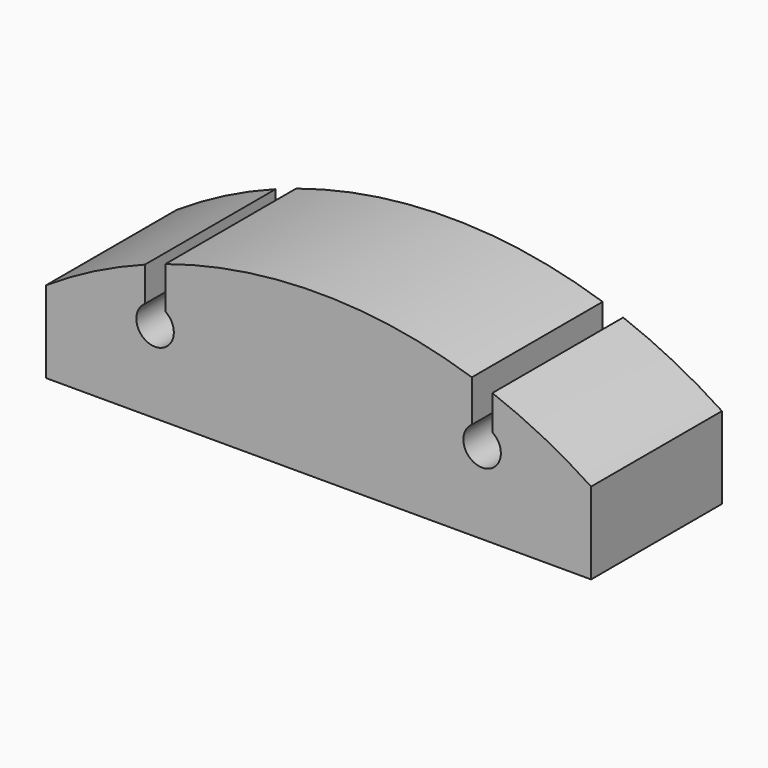
from build123d import *

# Parameters (mm, degrees)
F1_DEPTH = 19.05


with BuildPart() as f1:
    # F0 (on Front) → F1 (new body, symmetric)
    with BuildSketch(Plane.XZ):
        with BuildLine():
            Line((-65.218515, 7.019526), (-65.218515, -12.030474))
            Line((-65.218515, -12.030474), (61.781485, -12.030474))
            Line((61.781485, -12.030474), (61.781485, 7.019526))
            ThreePointArc((61.781485, 7.019526), (50.603999, 13.52121), (38.769085, 18.731095))
            Line((38.769085, 18.731095), (38.769085, 10.678184))
            ThreePointArc((38.769085, 10.678184), (36.381485, 2.650726), (33.993885, 10.678184))
            Line((33.993885, 10.678184), (33.993885, 20.402439))
            ThreePointArc((33.993885, 20.402439), (-1.718515, 26.069526), (-37.430915, 20.402439))
            Line((-37.430915, 20.402439), (-37.430915, 10.678184))
            ThreePointArc((-37.430915, 10.678184), (-39.818515, 2.650726), (-42.206115, 10.678184))
            Line((-42.206115, 10.678184), (-42.206115, 18.731095))
            ThreePointArc((-42.206115, 18.731095), (-54.041029, 13.52121), (-65.218515, 7.019526))
        make_face()
    extrude(amount=F1_DEPTH, both=True)


solid = f1.part
